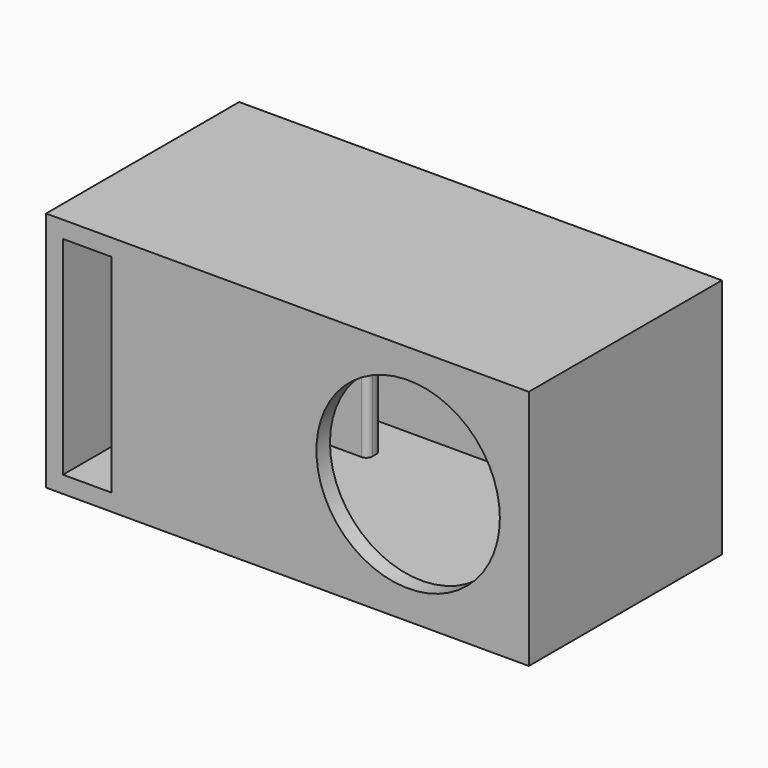
from build123d import *

# Parameters (mm, degrees)
F0_W     = 100
F0_H     = 50
F1_DEPTH = 50
F2_DEPTH = 3.5
F3_START = 46.5
F3_DEPTH = 3.5
F4_W     = 10
F4_H     = 43
F4_R     = 19.0002828609
F5_DEPTH = 4
F6_DEPTH = 50
F7_DEPTH = 3.5


with BuildPart() as f1:
    # F0 (on Top) → F1 (new body)
    with BuildSketch(Plane.XY):
        with Locations((-50, 25)):
            Rectangle(F0_W, F0_H)
        with BuildLine():
            ThreePointArc((-7, 46.5), (-4.5251262658, 45.4748737342), (-3.5, 43))
            Line((-3.5, 43), (-3.5, 7))
            ThreePointArc((-3.5, 7), (-4.5251262658, 4.5251262658), (-7, 3.5))
            Line((-7, 3.5), (-83, 3.5))
            Line((-83, 3.5), (-86.5, 3.5))
            Line((-86.5, 3.5), (-96.5, 3.5))
            Line((-96.5, 3.5), (-96.5, 43))
            ThreePointArc((-96.5, 43), (-95.4748737342, 45.4748737342), (-93, 46.5))
            Line((-93, 46.5), (-7, 46.5))
        make_face(mode=Mode.SUBTRACT)
    extrude(amount=F1_DEPTH)

    # F0 (on Top) → F2 (join)
    with BuildSketch(Plane.XY):
        with BuildLine():
            Line((-3.5, 7), (-3.5, 43))
            ThreePointArc((-3.5, 43), (-4.5251262658, 45.4748737342), (-7, 46.5))
            Line((-7, 46.5), (-93, 46.5))
            ThreePointArc((-93, 46.5), (-95.4748737342, 45.4748737342), (-96.5, 43))
            Line((-96.5, 43), (-96.5, 3.5))
            Line((-96.5, 3.5), (-86.5, 3.5))
            Line((-86.5, 3.5), (-86.5, 35))
            ThreePointArc((-86.5, 35), (-85.4748737342, 37.4748737342), (-83, 38.5))
            Line((-83, 38.5), (-62.6683076936, 38.5))
            ThreePointArc((-62.6683076936, 38.5), (-61.7844242171, 38.1338834765), (-61.4183076936, 37.25))
            Line((-61.4183076936, 37.25), (-61.4183076936, 36.25))
            ThreePointArc((-61.4183076936, 36.25), (-61.7844242171, 35.3661165235), (-62.6683076936, 35))
            Line((-62.6683076936, 35), (-64.7880662084, 35))
            Line((-64.7880662084, 35), (-83, 35))
            Line((-83, 35), (-83, 3.5))
            Line((-83, 3.5), (-7, 3.5))
            ThreePointArc((-7, 3.5), (-4.5251262658, 4.5251262658), (-3.5, 7))
        make_face()
    extrude(amount=F2_DEPTH)

    # F0 (on Top) → F3 (join)
    with BuildSketch(Plane.XY.offset(F3_START)):
        with BuildLine():
            Line((-3.5, 7), (-3.5, 43))
            ThreePointArc((-3.5, 43), (-4.5251262658, 45.4748737342), (-7, 46.5))
            Line((-7, 46.5), (-93, 46.5))
            ThreePointArc((-93, 46.5), (-95.4748737342, 45.4748737342), (-96.5, 43))
            Line((-96.5, 43), (-96.5, 3.5))
            Line((-96.5, 3.5), (-86.5, 3.5))
            Line((-86.5, 3.5), (-86.5, 35))
            ThreePointArc((-86.5, 35), (-85.4748737342, 37.4748737342), (-83, 38.5))
            Line((-83, 38.5), (-62.6683076936, 38.5))
            ThreePointArc((-62.6683076936, 38.5), (-61.7844242171, 38.1338834765), (-61.4183076936, 37.25))
            Line((-61.4183076936, 37.25), (-61.4183076936, 36.25))
            ThreePointArc((-61.4183076936, 36.25), (-61.7844242171, 35.3661165235), (-62.6683076936, 35))
            Line((-62.6683076936, 35), (-64.7880662084, 35))
            Line((-64.7880662084, 35), (-83, 35))
            Line((-83, 35), (-83, 3.5))
            Line((-83, 3.5), (-7, 3.5))
            ThreePointArc((-7, 3.5), (-4.5251262658, 4.5251262658), (-3.5, 7))
        make_face()
    extrude(amount=F3_DEPTH)

    # F4 (on Front) → F5 (cut)
    with BuildSketch(Plane.XZ):
        with Locations((-91.5, 25)):
            Rectangle(F4_W, F4_H)
        with Locations((-25, 25)):
            Circle(F4_R)
    extrude(amount=-F5_DEPTH, mode=Mode.SUBTRACT)

    # F0 (on Top) → F6 (join)
    with BuildSketch(Plane.XY):
        with BuildLine():
            Line((-86.5, 3.5), (-83, 3.5))
            Line((-83, 3.5), (-83, 35))
            Line((-83, 35), (-64.7880662084, 35))
            Line((-64.7880662084, 35), (-62.6683076936, 35))
            ThreePointArc((-62.6683076936, 35), (-61.7844242171, 35.3661165235), (-61.4183076936, 36.25))
            Line((-61.4183076936, 36.25), (-61.4183076936, 37.25))
            ThreePointArc((-61.4183076936, 37.25), (-61.7844242171, 38.1338834765), (-62.6683076936, 38.5))
            Line((-62.6683076936, 38.5), (-83, 38.5))
            ThreePointArc((-83, 38.5), (-85.4748737342, 37.4748737342), (-86.5, 35))
            Line((-86.5, 35), (-86.5, 3.5))
        make_face()
    extrude(amount=F6_DEPTH)

    # F0 (on Top) → F7 (join)
    with BuildSketch(Plane.XY):
        with BuildLine():
            Line((-3.5, 7), (-3.5, 43))
            ThreePointArc((-3.5, 43), (-4.5251262658, 45.4748737342), (-7, 46.5))
            Line((-7, 46.5), (-93, 46.5))
            ThreePointArc((-93, 46.5), (-95.4748737342, 45.4748737342), (-96.5, 43))
            Line((-96.5, 43), (-96.5, 3.5))
            Line((-96.5, 3.5), (-86.5, 3.5))
            Line((-86.5, 3.5), (-86.5, 35))
            ThreePointArc((-86.5, 35), (-85.4748737342, 37.4748737342), (-83, 38.5))
            Line((-83, 38.5), (-62.6683076936, 38.5))
            ThreePointArc((-62.6683076936, 38.5), (-61.7844242171, 38.1338834765), (-61.4183076936, 37.25))
            Line((-61.4183076936, 37.25), (-61.4183076936, 36.25))
            ThreePointArc((-61.4183076936, 36.25), (-61.7844242171, 35.3661165235), (-62.6683076936, 35))
            Line((-62.6683076936, 35), (-64.7880662084, 35))
            Line((-64.7880662084, 35), (-83, 35))
            Line((-83, 35), (-83, 3.5))
            Line((-83, 3.5), (-7, 3.5))
            ThreePointArc((-7, 3.5), (-4.5251262658, 4.5251262658), (-3.5, 7))
        make_face()
        with BuildLine():
            Line((-86.5, 3.5), (-83, 3.5))
            Line((-83, 3.5), (-83, 35))
            Line((-83, 35), (-64.7880662084, 35))
            Line((-64.7880662084, 35), (-62.6683076936, 35))
            ThreePointArc((-62.6683076936, 35), (-61.7844242171, 35.3661165235), (-61.4183076936, 36.25))
            Line((-61.4183076936, 36.25), (-61.4183076936, 37.25))
            ThreePointArc((-61.4183076936, 37.25), (-61.7844242171, 38.1338834765), (-62.6683076936, 38.5))
            Line((-62.6683076936, 38.5), (-83, 38.5))
            ThreePointArc((-83, 38.5), (-85.4748737342, 37.4748737342), (-86.5, 35))
            Line((-86.5, 35), (-86.5, 3.5))
        make_face()
    extrude(amount=F7_DEPTH)


solid = f1.part
